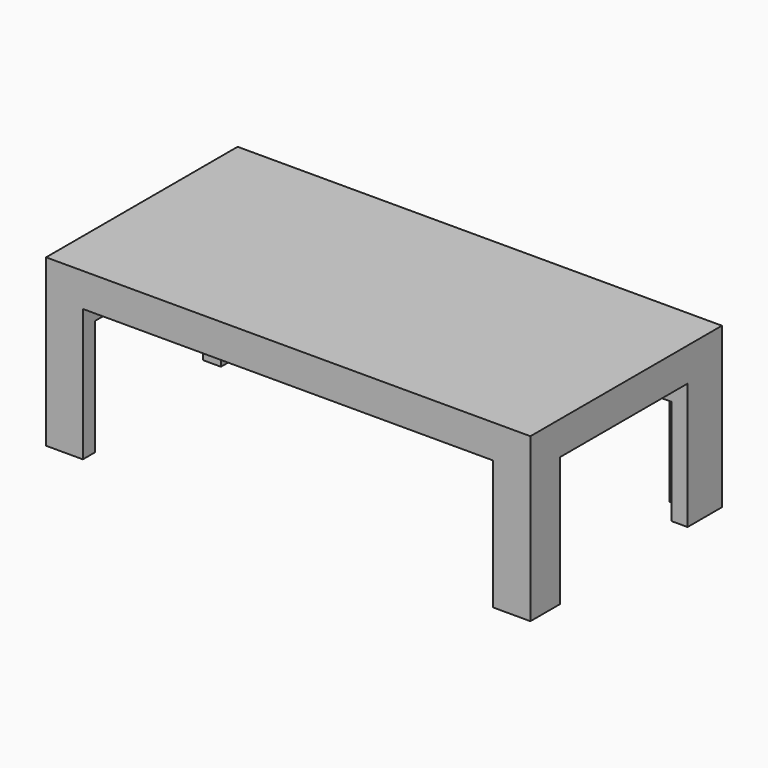
from build123d import *

# Parameters (mm, degrees)
F0_W      = 80.8181799948
F0_H      = 39.9472732097
F1_DEPTH  = 5.588
F2_W      = 6.1383359134
F2_H      = 6.141224876
F3_DEPTH  = 22.098
F2_H_2    = 7.1644689888
F4_DEPTH  = 22.86
F2_W_2    = 6.2832608819
F5_DEPTH  = 21.59
F6_DEPTH  = 23.114
F7_W      = 3.141630441
F7_H      = 3.070612438
F8_DEPTH  = 18.542
F9_DEPTH  = 25.4
F11_W     = 3.5289935768
F11_H     = 3.6606490612
F13_DEPTH = 19.304
F14_DEPTH = 27.432
F15_DEPTH = 44.958
F12_W     = 3.1885020435
F12_H     = 3.5822344944
F16_DEPTH = 19.812


with BuildPart() as f1:
    # F0 (on Top) → F1 (new body)
    with BuildSketch(Plane.XY):
        with Locations((-2.7709100395, -2.3090904579)):
            Rectangle(F0_W, F0_H)
    extrude(amount=F1_DEPTH)

    # F2 (on face) → F3 (join)
    with BuildSketch(Plane(origin=(0, 0, 0), x_dir=(1, 0, 0), z_dir=(0, 0, -1))):
        with Locations((-40.1108320802, 19.2121146247)):
            Rectangle(F2_W, F2_H)
    extrude(amount=F3_DEPTH)

    # F2 (on face) → F4 (join)
    with BuildSketch(Plane(origin=(0, 0, 0), x_dir=(1, 0, 0), z_dir=(0, 0, -1))):
        with Locations((-40.1108320802, -14.0823116526)):
            Rectangle(F2_W, F2_H_2)
    extrude(amount=F4_DEPTH)

    # F2 (on face) → F5 (join)
    with BuildSketch(Plane(origin=(0, 0, 0), x_dir=(1, 0, 0), z_dir=(0, 0, -1))):
        with Locations((34.4965495169, 19.2121146247)):
            Rectangle(F2_W_2, F2_H)
    extrude(amount=F5_DEPTH)

    # F2 (on face) → F6 (join)
    with BuildSketch(Plane(origin=(0, 0, 0), x_dir=(1, 0, 0), z_dir=(0, 0, -1))):
        with Locations((34.4965495169, -14.0823116526)):
            Rectangle(F2_W_2, F2_H_2)
    extrude(amount=F6_DEPTH)

    # F7 (on face) → F8 (cut)
    with BuildSketch(Plane(origin=(0, 0, -21.59), x_dir=(1, 0, 0), z_dir=(0, 0, -1))):
        with Locations((32.9257342964, 17.6768084057)):
            Rectangle(F7_W, F7_H)
    extrude(amount=-F8_DEPTH, mode=Mode.SUBTRACT)

    # F9 (add): a face of the model
    f9_faces = [f1.faces().sort_by_distance(p)[0] for p in [
        (34.4965495169, 14.0823116526, -23.114),
    ]]
    extrude(f9_faces, amount=F9_DEPTH)

    # F11 (on face) → F13 (cut)
    with BuildSketch(Plane(origin=(0, 0, -22.098), x_dir=(1, 0, 0), z_dir=(0, 0, -1))):
        with Locations((-38.8061609119, 17.9718267173)):
            Rectangle(F11_W, F11_H)
    extrude(amount=-F13_DEPTH, mode=Mode.SUBTRACT)

    # F10 (on face) → F14 (cut)
    with BuildSketch(Plane(origin=(0, 0, -48.514), x_dir=(1, 0, 0), z_dir=(0, 0, -1))):
        Polygon((37.6381799579, -10.5000771582), (34.951556474, -10.5000771582), (34.951556474, -14.6074714139), (31.354919076, -14.6074714139), (31.354919076, -17.664546147), (37.6381799579, -17.664546147), align=None)
    extrude(amount=-F14_DEPTH, mode=Mode.SUBTRACT)

    # F15 (cut): a face of the model
    f15_faces = [f1.faces().sort_by_distance(p)[0] for p in [
        (33.153237775, 12.5537742861, -48.514),
    ]]
    extrude(f15_faces, amount=-F15_DEPTH, mode=Mode.SUBTRACT)

    # F12 (on face) → F16 (cut)
    with BuildSketch(Plane(origin=(0, 0, -22.86), x_dir=(1, 0, 0), z_dir=(0, 0, -1))):
        with Locations((-38.6359151453, -12.2911944054)):
            Rectangle(F12_W, F12_H)
    extrude(amount=-F16_DEPTH, mode=Mode.SUBTRACT)


solid = f1.part
